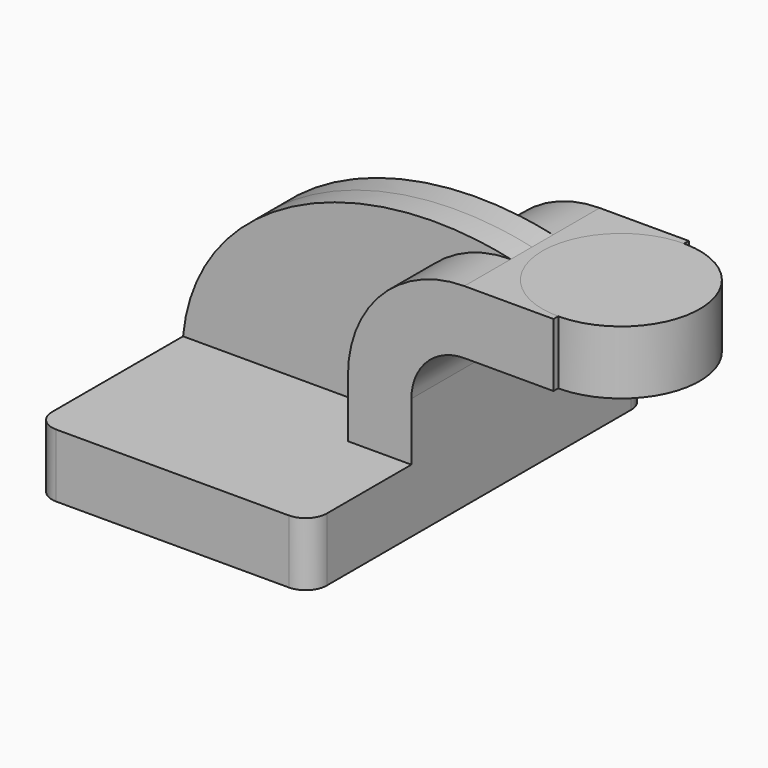
from build123d import *

# Parameters (mm, degrees)
F1_DEPTH = 63.5
F0_W     = 23.636122
F0_H     = 19.05
F2_DEPTH = 25.4
F3_DEPTH = 7.9375
F5_R     = 6.35


with BuildPart() as f1:
    # F0 (on Front) → F1 (new body, symmetric)
    with BuildSketch(Plane.XZ):
        Polygon((41.275, -9.525), (41.275, 9.525), (22.225, 9.525), (-41.275, 9.525), (-41.275, -9.525), align=None)
    extrude(amount=F1_DEPTH, both=True)

    # F0 (on Front) → F2 (join, symmetric)
    with BuildSketch(Plane.XZ):
        with BuildLine():
            Line((22.225, 9.525), (41.275, 9.525))
            Line((41.275, 9.525), (41.275, 26.967128))
            ThreePointArc((41.275, 26.967128), (45.934366, 38.215834), (57.183072, 42.8752))
            Line((57.183072, 42.8752), (60.325, 42.8752))
            Line((60.325, 42.8752), (60.325, 61.9252))
            Line((60.325, 61.9252), (57.183072, 61.9252))
            ThreePointArc((57.183072, 61.9252), (32.463982, 51.686218), (22.225, 26.967128))
            Line((22.225, 26.967128), (22.225, 9.525))
        make_face()
        with Locations((72.143061, 52.4002)):
            Rectangle(F0_W, F0_H)
    extrude(amount=F2_DEPTH, both=True)

    # F0 (on Front) → F3 (join, symmetric)
    with BuildSketch(Plane.XZ):
        with BuildLine():
            Line((-41.275, 9.525), (22.225, 9.525))
            Line((22.225, 9.525), (22.225, 26.967128))
            ThreePointArc((22.225, 26.967128), (32.463982, 51.686218), (57.183072, 61.9252))
            add(Edge.make_bspline(
                [(-41.275, 9.525), (-37.408441, 49.887042), (10.748739, 72.245739), (57.183072, 61.9252)],
                knots=[0, 0, 0, 0, 111.53373, 111.53373, 111.53373, 111.53373], degree=3))
        make_face()
    extrude(amount=F3_DEPTH, both=True)

    # F5
    f5_edges = [f1.edges().sort_by_distance(p)[0] for p in [
        (-41.275, 63.5, 0),
        (41.275, 63.5, 0),
        (-41.275, -63.5, 0),
        (41.275, -63.5, 0),
    ]]
    fillet(f5_edges, radius=F5_R)


with BuildPart() as f4:
    # F0 (on Front) → F4 (revolve)
    with BuildSketch(Plane.XZ):
        with Locations((72.143061, 52.4002)):
            Rectangle(F0_W, F0_H)
    revolve(axis=Axis((83.961122, 0, 52.4002), (0, 0, 1)))


solid = Compound([f1.part, f4.part])
